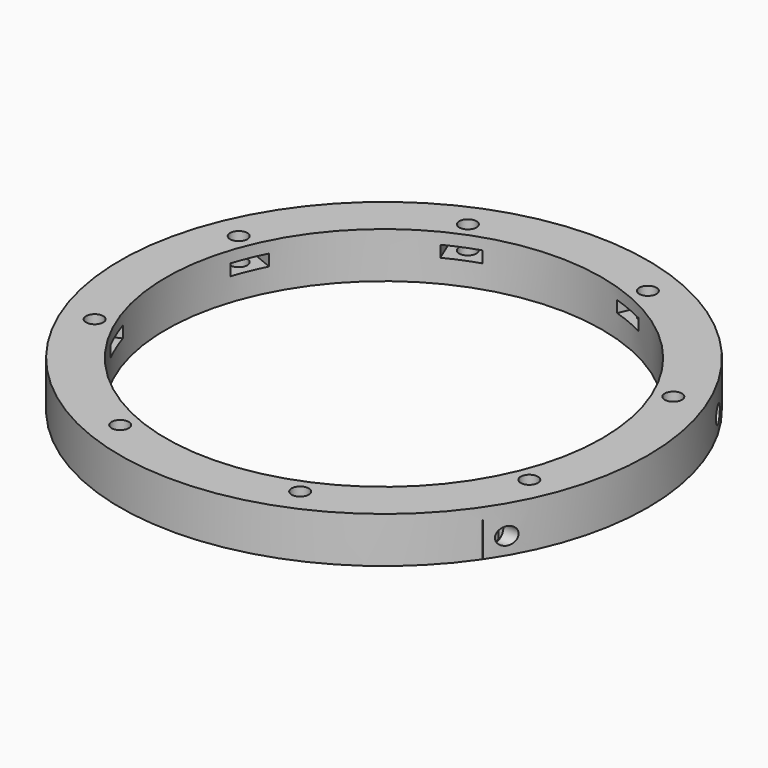
from build123d import *

# Parameters (mm, degrees)
CYLINDER1274_R               = 1.5
CYLINDER1274_DEPTH           = 60
CYLINDER1276_R               = 1.5
CYLINDER1276_DEPTH           = 60
CYLINDER1273_R               = 1.5
CYLINDER1273_DEPTH           = 60
CYLINDER1275_R               = 1.5
CYLINDER1275_DEPTH           = 60
BOX543_W                     = 2
BOX543_H                     = 6
BOX543_DEPTH                 = 6
BOX542_W                     = 2
BOX542_H                     = 6
BOX542_DEPTH                 = 6
BOX541_W                     = 2
BOX541_H                     = 6
BOX541_DEPTH                 = 6
BOX540_W                     = 2
BOX540_H                     = 6
BOX540_DEPTH                 = 6
BOX533_W                     = 8
BOX533_H                     = 6
BOX533_DEPTH                 = 2
BOX539_W                     = 8
BOX539_H                     = 6
BOX539_DEPTH                 = 2
BOX539_PLACEMENT_ANGLE       = 135
BOX534_W                     = 8
BOX534_H                     = 6
BOX534_DEPTH                 = 2
BOX536_W                     = 8
BOX536_H                     = 6
BOX536_DEPTH                 = 2
BOX536_PLACEMENT_ANGLE       = 225
BOX537_W                     = 8
BOX537_H                     = 6
BOX537_DEPTH                 = 2
BOX538_W                     = 8
BOX538_H                     = 6
BOX538_DEPTH                 = 2
BOX538_PLACEMENT_ANGLE       = 45
BOX532_W                     = 8
BOX532_H                     = 6
BOX532_DEPTH                 = 2
BOX535_W                     = 8
BOX535_H                     = 6
BOX535_DEPTH                 = 2
BOX535_PLACEMENT_ANGLE       = 45
COMPOUND921_PLACEMENT_ANGLE  = 22.5
CYLINDER1272_R               = 1.5
CYLINDER1272_DEPTH           = 60
CYLINDER1271_R               = 1.5
CYLINDER1271_DEPTH           = 60
CYLINDER1271_PLACEMENT_ANGLE = 135
CYLINDER1266_R               = 1.5
CYLINDER1266_DEPTH           = 60
CYLINDER1267_R               = 1.5
CYLINDER1267_DEPTH           = 60
CYLINDER1267_PLACEMENT_ANGLE = 225
CYLINDER1270_R               = 1.5
CYLINDER1270_DEPTH           = 60
CYLINDER1268_R               = 1.5
CYLINDER1268_DEPTH           = 60
CYLINDER1268_PLACEMENT_ANGLE = 45
CYLINDER1265_R               = 1.5
CYLINDER1265_DEPTH           = 60
CYLINDER1269_R               = 1.5
CYLINDER1269_DEPTH           = 60
CYLINDER1269_PLACEMENT_ANGLE = 45
COMPOUND919_PLACEMENT_ANGLE  = 22.5
TUBE112_R                    = 46
TUBE112_R_2                  = 38
TUBE112_DEPTH                = 8


with BuildPart() as obj1:
    # Cylinder1274 → Cylinder1274 (new body)
    with BuildSketch(Plane(origin=(32, -23, -5), x_dir=(0, 0, -1), z_dir=(1, 0, 0))):
        Circle(CYLINDER1274_R)
    extrude(amount=CYLINDER1274_DEPTH)


with BuildPart() as obj2:
    # Cylinder1276 → Cylinder1276 (new body)
    with BuildSketch(Plane(origin=(28, 51, 7), x_dir=(0, 0, -1), z_dir=(1, 0, 0))):
        Circle(CYLINDER1276_R)
    extrude(amount=CYLINDER1276_DEPTH)


with BuildPart() as obj3:
    # Cylinder1273 → Cylinder1273 (new body)
    with BuildSketch(Plane(origin=(28, -51, 7), x_dir=(0, 0, -1), z_dir=(1, 0, 0))):
        Circle(CYLINDER1273_R)
    extrude(amount=CYLINDER1273_DEPTH)


with BuildPart() as compound920:
    # Cylinder1275 → Cylinder1275 (new body)
    with BuildSketch(Plane(origin=(32, 23, -5), x_dir=(0, 0, -1), z_dir=(1, 0, 0))):
        Circle(CYLINDER1275_R)
    extrude(amount=CYLINDER1275_DEPTH)

    # Compound920: union obj1, obj2, obj3
    add(obj1.part)
    add(obj2.part)
    add(obj3.part)


with BuildPart() as krychle543:
    # Box543 → Box543 (new body)
    with BuildSketch(Plane(origin=(36, -26, -8), x_dir=(1, 0, 0), z_dir=(0, 0, 1))):
        with Locations((1, 3)):
            Rectangle(BOX543_W, BOX543_H)
    extrude(amount=BOX543_DEPTH)


with BuildPart() as krychle542:
    # Box542 → Box542 (new body)
    with BuildSketch(Plane(origin=(32, 48, 4), x_dir=(1, 0, 0), z_dir=(0, 0, 1))):
        with Locations((1, 3)):
            Rectangle(BOX542_W, BOX542_H)
    extrude(amount=BOX542_DEPTH)


with BuildPart() as krychle541:
    # Box541 → Box541 (new body)
    with BuildSketch(Plane(origin=(32, -54, 4), x_dir=(1, 0, 0), z_dir=(0, 0, 1))):
        with Locations((1, 3)):
            Rectangle(BOX541_W, BOX541_H)
    extrude(amount=BOX541_DEPTH)


with BuildPart() as compound922:
    # Box540 → Box540 (new body)
    with BuildSketch(Plane(origin=(36, 20, -8), x_dir=(1, 0, 0), z_dir=(0, 0, 1))):
        with Locations((1, 3)):
            Rectangle(BOX540_W, BOX540_H)
    extrude(amount=BOX540_DEPTH)

    # Compound922: union Krychle543, Krychle542, Krychle541
    add(krychle543.part)
    add(krychle542.part)
    add(krychle541.part)


with BuildPart() as krychle533:
    # Box533 → Box533 (new body)
    with BuildSketch(Plane(origin=(3, 37, -4), x_dir=(0, 1, 0), z_dir=(0, 0, 1))):
        with Locations((4, 3)):
            Rectangle(BOX533_W, BOX533_H)
    extrude(amount=BOX533_DEPTH)


with BuildPart() as krychle539:
    # Box539 → Box539 (new body)
    with BuildSketch(Plane.XY):
        with Locations((4, 3)):
            Rectangle(BOX539_W, BOX539_H)
    extrude(amount=BOX539_DEPTH)


with BuildPart() as krychle539_1:
    # Box539 placement: moved
    add(krychle539.part.moved(Location((-24.041631, 28.284271, -4))).rotate(Axis((-24.041631, 28.284271, -4), (0, 0, 1)), BOX539_PLACEMENT_ANGLE))


with BuildPart() as krychle534:
    # Box534 → Box534 (new body)
    with BuildSketch(Plane(origin=(-37, 3, -4), x_dir=(-1, 0, 0), z_dir=(0, 0, 1))):
        with Locations((4, 3)):
            Rectangle(BOX534_W, BOX534_H)
    extrude(amount=BOX534_DEPTH)


with BuildPart() as krychle536:
    # Box536 → Box536 (new body)
    with BuildSketch(Plane.XY):
        with Locations((4, 3)):
            Rectangle(BOX536_W, BOX536_H)
    extrude(amount=BOX536_DEPTH)


with BuildPart() as krychle536_1:
    # Box536 placement: moved
    add(krychle536.part.moved(Location((-28.284271, -24.041631, -4))).rotate(Axis((-28.284271, -24.041631, -4), (0, 0, 1)), BOX536_PLACEMENT_ANGLE))


with BuildPart() as krychle537:
    # Box537 → Box537 (new body)
    with BuildSketch(Plane(origin=(-3, -37, -4), x_dir=(0, -1, 0), z_dir=(0, 0, 1))):
        with Locations((4, 3)):
            Rectangle(BOX537_W, BOX537_H)
    extrude(amount=BOX537_DEPTH)


with BuildPart() as krychle538:
    # Box538 → Box538 (new body)
    with BuildSketch(Plane.XY):
        with Locations((4, 3)):
            Rectangle(BOX538_W, BOX538_H)
    extrude(amount=BOX538_DEPTH)


with BuildPart() as krychle538_1:
    # Box538 placement: moved
    add(krychle538.part.moved(Location((24.041631, -28.284271, -4))).rotate(Axis((24.041631, -28.284271, -4), (0, 0, -1)), BOX538_PLACEMENT_ANGLE))


with BuildPart() as krychle532:
    # Box532 → Box532 (new body)
    with BuildSketch(Plane(origin=(37, -3, -4), x_dir=(1, 0, 0), z_dir=(0, 0, 1))):
        with Locations((4, 3)):
            Rectangle(BOX532_W, BOX532_H)
    extrude(amount=BOX532_DEPTH)


with BuildPart() as compound921:
    # Box535 → Box535 (new body)
    with BuildSketch(Plane.XY):
        with Locations((4, 3)):
            Rectangle(BOX535_W, BOX535_H)
    extrude(amount=BOX535_DEPTH)


with BuildPart() as compound921_1:
    # Box535 placement: moved
    add(compound921.part.moved(Location((28.284271, 24.041631, -4))).rotate(Axis((28.284271, 24.041631, -4), (0, 0, 1)), BOX535_PLACEMENT_ANGLE))

    # Compound921: union Krychle533, Krychle539, Krychle534, Krychle536, Krychle537, Krychle538, Krychle532
    add(krychle533.part)
    add(krychle539_1.part)
    add(krychle534.part)
    add(krychle536_1.part)
    add(krychle537.part)
    add(krychle538_1.part)
    add(krychle532.part)


with BuildPart() as compound921_2:
    # Compound921 placement: moved
    add(compound921_1.part.rotate(Axis((0, 0, 0), (0, 0, 1)), COMPOUND921_PLACEMENT_ANGLE))


with BuildPart() as obj4:
    # Cylinder1272 → Cylinder1272 (new body)
    with BuildSketch(Plane(origin=(0, 41, -54), x_dir=(0, 1, 0), z_dir=(0, 0, 1))):
        Circle(CYLINDER1272_R)
    extrude(amount=CYLINDER1272_DEPTH)


with BuildPart() as obj5:
    # Cylinder1271 → Cylinder1271 (new body)
    with BuildSketch(Plane.XY):
        Circle(CYLINDER1271_R)
    extrude(amount=CYLINDER1271_DEPTH)


with BuildPart() as obj5_1:
    # Cylinder1271 placement: moved
    add(obj5.part.moved(Location((-28.991378, 28.991378, -54))).rotate(Axis((-28.991378, 28.991378, -54), (0, 0, 1)), CYLINDER1271_PLACEMENT_ANGLE))


with BuildPart() as obj6:
    # Cylinder1266 → Cylinder1266 (new body)
    with BuildSketch(Plane(origin=(-41, 0, -54), x_dir=(-1, 0, 0), z_dir=(0, 0, 1))):
        Circle(CYLINDER1266_R)
    extrude(amount=CYLINDER1266_DEPTH)


with BuildPart() as obj7:
    # Cylinder1267 → Cylinder1267 (new body)
    with BuildSketch(Plane.XY):
        Circle(CYLINDER1267_R)
    extrude(amount=CYLINDER1267_DEPTH)


with BuildPart() as obj7_1:
    # Cylinder1267 placement: moved
    add(obj7.part.moved(Location((-28.991378, -28.991378, -54))).rotate(Axis((-28.991378, -28.991378, -54), (0, 0, 1)), CYLINDER1267_PLACEMENT_ANGLE))


with BuildPart() as obj8:
    # Cylinder1270 → Cylinder1270 (new body)
    with BuildSketch(Plane(origin=(0, -41, -54), x_dir=(0, -1, 0), z_dir=(0, 0, 1))):
        Circle(CYLINDER1270_R)
    extrude(amount=CYLINDER1270_DEPTH)


with BuildPart() as obj9:
    # Cylinder1268 → Cylinder1268 (new body)
    with BuildSketch(Plane.XY):
        Circle(CYLINDER1268_R)
    extrude(amount=CYLINDER1268_DEPTH)


with BuildPart() as obj9_1:
    # Cylinder1268 placement: moved
    add(obj9.part.moved(Location((28.991378, -28.991378, -54))).rotate(Axis((28.991378, -28.991378, -54), (0, 0, -1)), CYLINDER1268_PLACEMENT_ANGLE))


with BuildPart() as obj10:
    # Cylinder1265 → Cylinder1265 (new body)
    with BuildSketch(Plane(origin=(41, 0, -54), x_dir=(1, 0, 0), z_dir=(0, 0, 1))):
        Circle(CYLINDER1265_R)
    extrude(amount=CYLINDER1265_DEPTH)


with BuildPart() as compound919:
    # Cylinder1269 → Cylinder1269 (new body)
    with BuildSketch(Plane.XY):
        Circle(CYLINDER1269_R)
    extrude(amount=CYLINDER1269_DEPTH)


with BuildPart() as compound919_1:
    # Cylinder1269 placement: moved
    add(compound919.part.moved(Location((28.991378, 28.991378, -54))).rotate(Axis((28.991378, 28.991378, -54), (0, 0, 1)), CYLINDER1269_PLACEMENT_ANGLE))

    # Compound919: union obj4, obj5, obj6, obj7, obj8, obj9, obj10
    add(obj4.part)
    add(obj5_1.part)
    add(obj6.part)
    add(obj7_1.part)
    add(obj8.part)
    add(obj9_1.part)
    add(obj10.part)


with BuildPart() as compound919_2:
    # Compound919 placement: moved
    add(compound919_1.part.rotate(Axis((0, 0, 0), (0, 0, 1)), COMPOUND919_PLACEMENT_ANGLE))


with BuildPart() as cut464:
    # Tube112 → Tube112 (new body)
    with BuildSketch(Plane.XY.offset(-8)):
        Circle(TUBE112_R)
        Circle(TUBE112_R_2, mode=Mode.SUBTRACT)
    extrude(amount=TUBE112_DEPTH)

    # Cut461: cut Compound919
    add(compound919_2.part, mode=Mode.SUBTRACT)

    # Cut462: cut Compound921
    add(compound921_2.part, mode=Mode.SUBTRACT)

    # Cut463: cut Compound922
    add(compound922.part, mode=Mode.SUBTRACT)

    # Cut464: cut Compound920
    add(compound920.part, mode=Mode.SUBTRACT)


with BuildPart() as cut464_1:
    # Cut464 placement: moved
    add(cut464.part.moved(Location((0, 0, 2))))


solid = cut464_1.part
